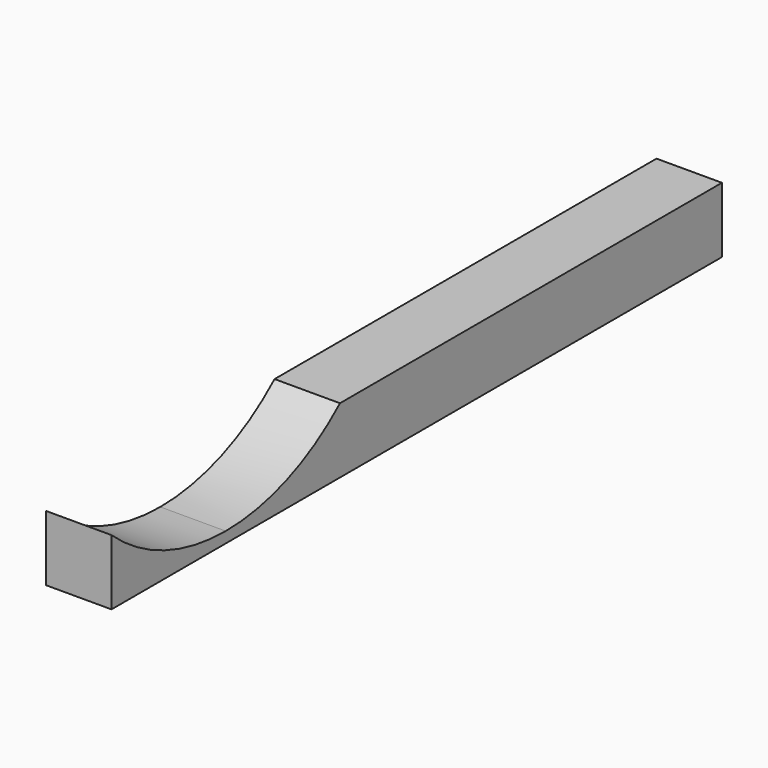
from build123d import *

# Parameters (mm, degrees)
F1_DEPTH = 0.762


with BuildPart() as f1:
    # F0 (on Right) → F1 (new body)
    with BuildSketch(Plane.YZ):
        with BuildLine():
            Line((0, 0.762), (0, 0))
            Line((0, 0), (8.89, 0))
            Line((8.89, 0), (8.89, 0.762))
            Line((8.89, 0.762), (7.2263, 0.762))
            Line((7.2263, 0.762), (5.5626, 0.762))
            Line((5.5626, 0.762), (3.3274, 0.762))
            ThreePointArc((3.3274, 0.762), (2.554082, 0.291145), (1.6637, 0.127))
            ThreePointArc((1.6637, 0.127), (0.773318, 0.291145), (0, 0.762))
        make_face()
    extrude(amount=F1_DEPTH)


solid = f1.part
